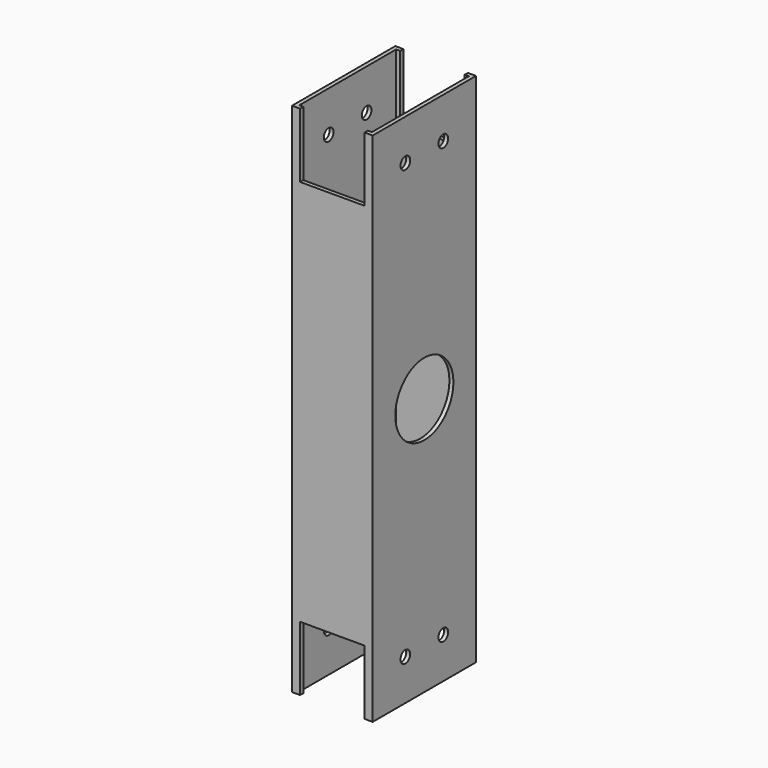
from build123d import *

# Parameters (mm, degrees)
F0_W     = 31.75
F0_H     = 50.8
F0_W_2   = 28.6004
F0_H_2   = 47.6504
F1_DEPTH = 101.6
F2_W     = 25.4
F2_H     = 25.4
F3_DEPTH = 50.801
F4_R     = 2.38125
F5_DEPTH = 31.751
F7_R     = 14.2875
F8_DEPTH = 31.751


with BuildPart() as f1:
    # F0 (on Top) → F1 (new body)
    with BuildSketch(Plane.XY):
        Rectangle(F0_W, F0_H)
        Rectangle(F0_W_2, F0_H_2, mode=Mode.SUBTRACT)
    extrude(amount=F1_DEPTH)

    # F2 (on face) → F3 (cut, through all)
    with BuildSketch(Plane.XZ.offset(25.4)):
        with Locations((0, 88.9)):
            Rectangle(F2_W, F2_H)
    extrude(amount=-F3_DEPTH, mode=Mode.SUBTRACT)

    # F4 (on face) → F5 (cut, through all)
    with BuildSketch(Plane(origin=(-15.875, 0, 0), x_dir=(0, -1, 0), z_dir=(-1, 0, 0))):
        with Locations((-9.332526, 85.532526)):
            Circle(F4_R)
        with Locations((9.332526, 85.532526)):
            Circle(F4_R)
    extrude(amount=-F5_DEPTH, mode=Mode.SUBTRACT)

    # F6: F1 across plane


with BuildPart() as f1_1:
    add(f1.part)
    add(f1.part.mirror(Plane.XY))

    # F7 (on face) → F8 (cut, through all)
    with BuildSketch(Plane(origin=(-15.875, 0, 0), x_dir=(0, -1, 0), z_dir=(-1, 0, 0))):
        Circle(F7_R)
    extrude(amount=-F8_DEPTH, mode=Mode.SUBTRACT)


solid = f1_1.part
